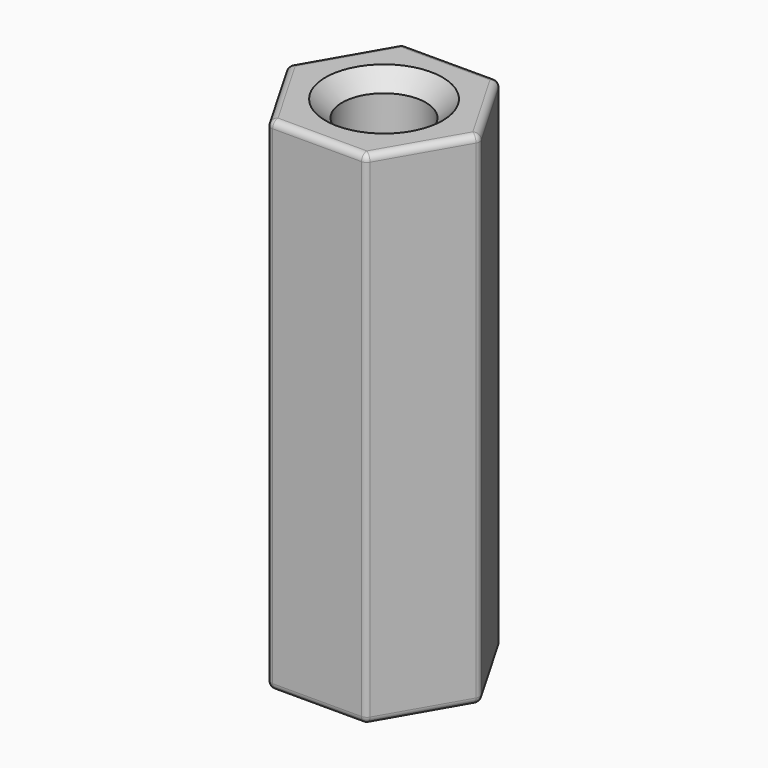
from build123d import *

# Parameters (mm, degrees)
F0_R     = 1.25
F1_DEPTH = 15
F2_SIZE  = 0.5
F3_R     = 0.2


with BuildPart() as f1:
    # F0 (on Top) → F1 (new body)
    with BuildSketch(Plane.XY):
        Polygon((1.443376, 2.5), (-1.443376, 2.5), (-2.886751, 0), (-1.443376, -2.5), (1.443376, -2.5), (2.886751, 0), align=None)
        Circle(F0_R, mode=Mode.SUBTRACT)
    extrude(amount=F1_DEPTH)

    # F2
    f2_edges = [f1.edges().sort_by_distance(p)[0] for p in [
        (-1.25, 0, 15),
    ]]
    chamfer(f2_edges, length=F2_SIZE)

    # F3
    f3_edges = [f1.edges().sort_by_distance(p)[0] for p in [
        (-2.165064, -1.25, 15),
        (0, -2.5, 15),
        (2.165064, -1.25, 15),
        (2.165064, 1.25, 15),
        (0, 2.5, 15),
        (-2.165064, 1.25, 15),
        (-2.165064, -1.25, 0),
        (0, -2.5, 0),
        (2.165064, -1.25, 0),
        (2.165064, 1.25, 0),
        (0, 2.5, 0),
        (-2.165064, 1.25, 0),
        (-1.443376, -2.5, 7.5),
        (1.443376, -2.5, 7.5),
        (-2.886751, 0, 7.5),
        (-1.443376, 2.5, 7.5),
        (1.443376, 2.5, 7.5),
        (2.886751, 0, 7.5),
    ]]
    fillet(f3_edges, radius=F3_R)


solid = f1.part
